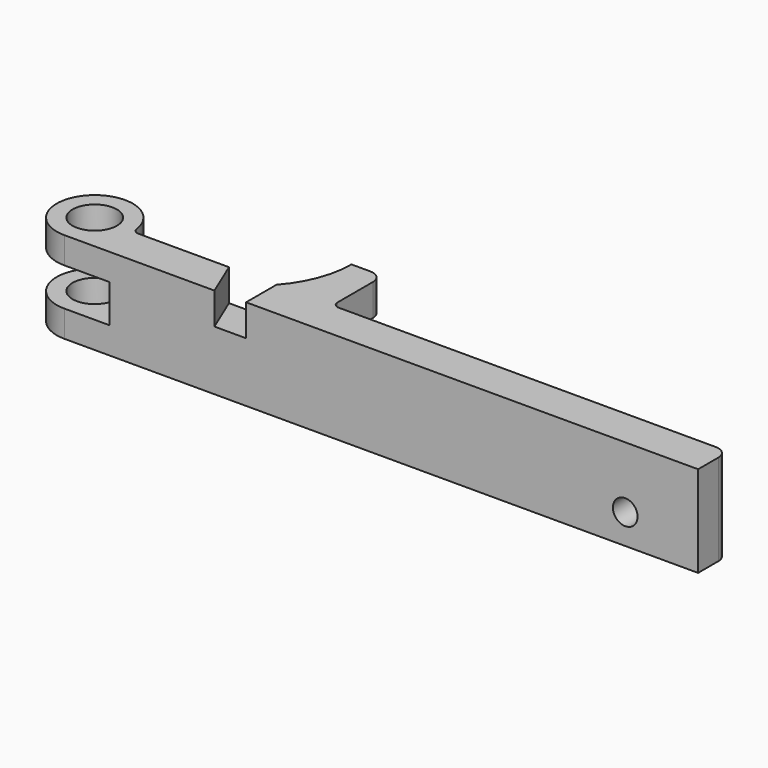
from build123d import *

# Parameters (mm, degrees)
F0_R     = 7
F1_DEPTH = 28.8
F2_DEPTH = 10
F3_DEPTH = 10
F4_R     = 3.9
F5_DEPTH = 32.001
F6_W     = 30
F6_H     = 12
F7_DEPTH = 50


with BuildPart() as f1:
    # F0 (on Top) → F1 (new body)
    with BuildSketch(Plane.XY):
        with BuildLine():
            Line((57.36, 0), (57.36, -12))
            Line((57.36, -12), (200, -12))
            Line((200, -12), (200, -4))
            ThreePointArc((200, -4), (198.828427, -1.171573), (196, 0))
            Line((196, 0), (77, 0))
            Line((77, 0), (57.36, 0))
        make_face()
        with BuildLine():
            ThreePointArc((11.87692, 1.714286), (-9.071147, 7.855844), (0, -12))
            Line((0, -12), (47.36, -12))
            Line((47.36, -12), (42.36, 0))
            Line((42.36, 0), (13.856406, 0))
            ThreePointArc((13.856406, 0), (12.547099, 0.488142), (11.87692, 1.714286))
        make_face()
        Circle(F0_R, mode=Mode.SUBTRACT)
        Polygon((42.36, 0), (47.36, -12), (57.36, -12), (57.36, 0), align=None)
    extrude(amount=-F1_DEPTH)

    # F0 (on Top) → F2 (join)
    with BuildSketch(Plane.XY):
        with BuildLine():
            ThreePointArc((65, 20), (63.024853, 9.295266), (57.36, 0))
            Line((57.36, 0), (77, 0))
            ThreePointArc((77, 0), (75.585786, 0.585786), (75, 2))
            Line((75, 2), (75, 16))
            ThreePointArc((75, 16), (73.828427, 18.828427), (71, 20))
            Line((71, 20), (65, 20))
        make_face()
    extrude(amount=-F2_DEPTH)

    # F0 (on Top) → F3 (cut)
    with BuildSketch(Plane.XY):
        Polygon((42.36, 0), (47.36, -12), (57.36, -12), (57.36, 0), align=None)
    extrude(amount=-F3_DEPTH, mode=Mode.SUBTRACT)

    # F4 (on face) → F5 (cut, through all)
    with BuildSketch(Plane.XZ.offset(12)):
        with Locations((177, -19.4)):
            Circle(F4_R)
    extrude(amount=-F5_DEPTH, mode=Mode.SUBTRACT)

    # F6 (on Front) → F7 (cut, symmetric)
    with BuildSketch(Plane.XZ):
        with Locations((-0.769001, -14.4)):
            Rectangle(F6_W, F6_H)
    extrude(amount=F7_DEPTH, both=True, mode=Mode.SUBTRACT)


solid = f1.part
